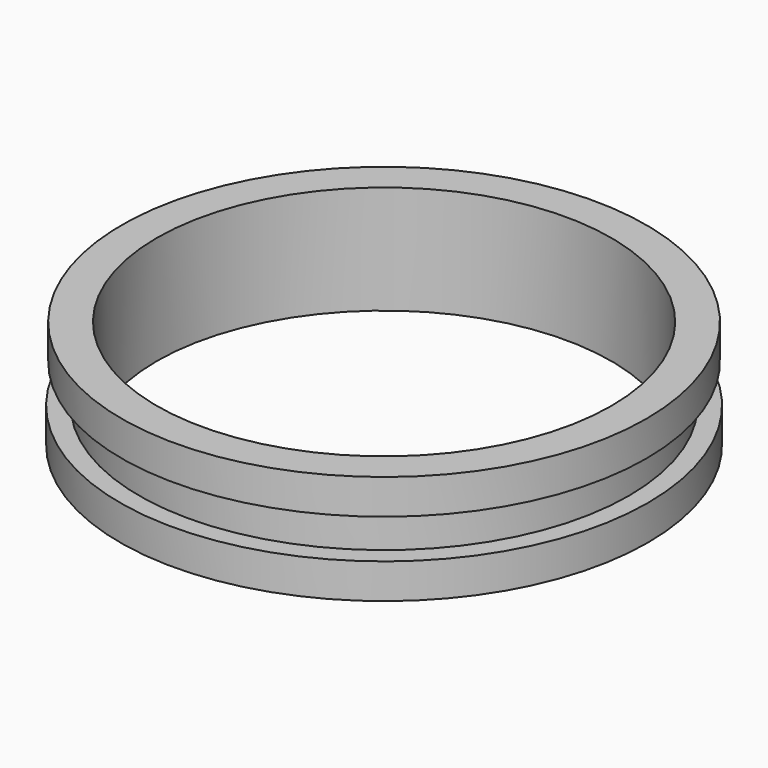
from build123d import *

# Parameters (mm, degrees)
SKETCH_R      = 7.546462
SKETCH_R_2    = 6.5
PAD_DEPTH     = 1
SKETCH001_R   = 7
SKETCH001_R_2 = 6.5
PAD001_DEPTH  = 1.1
SKETCH002_R   = 7.5
SKETCH002_R_2 = 6.5
PAD002_DEPTH  = 1


with BuildPart() as part:
    # Sketch → Pad (new body)
    with BuildSketch(Plane.XY):
        Circle(SKETCH_R)
        Circle(SKETCH_R_2, mode=Mode.SUBTRACT)
    extrude(amount=PAD_DEPTH)

    # Sketch001 (on Face4 of Pad) → Pad001 (join)
    with BuildSketch(Plane.XY.offset(1)):
        Circle(SKETCH001_R)
        Circle(SKETCH001_R_2, mode=Mode.SUBTRACT)
    extrude(amount=PAD001_DEPTH)

    # Sketch002 (on Face7 of Pad001) → Pad002 (join)
    with BuildSketch(Plane.XY.offset(2.1)):
        Circle(SKETCH002_R)
        Circle(SKETCH002_R_2, mode=Mode.SUBTRACT)
    extrude(amount=PAD002_DEPTH)


solid = part.part
